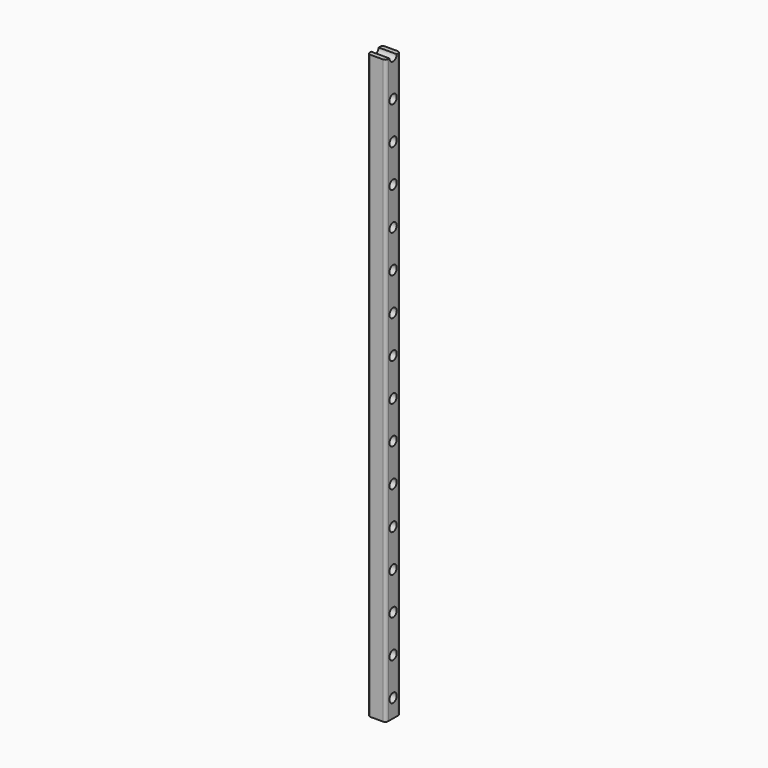
from build123d import *

# Parameters (mm, degrees)
F0_W     = 30
F0_H     = 30
F1_DEPTH = 960
F2_R     = 7.5
F3_DEPTH = 30.001
F4_R     = 5


with BuildPart() as f1:
    # F0 (on Top) → F1 (new body)
    with BuildSketch(Plane.XY):
        Rectangle(F0_W, F0_H)
    extrude(amount=F1_DEPTH)

    # F2 (on face) → F3 (cut, through all)
    with BuildSketch(Plane.YZ.offset(15)):
        with Locations((0, 30)):
            Circle(F2_R)
        with Locations((0, 92)):
            Circle(F2_R)
        with Locations((0, 154)):
            Circle(F2_R)
        with Locations((0, 216)):
            Circle(F2_R)
        with Locations((0, 278)):
            Circle(F2_R)
        with Locations((0, 340)):
            Circle(F2_R)
        with Locations((0, 402)):
            Circle(F2_R)
        with Locations((0, 464)):
            Circle(F2_R)
        with Locations((0, 526)):
            Circle(F2_R)
        with Locations((0, 588)):
            Circle(F2_R)
        with Locations((0, 650)):
            Circle(F2_R)
        with Locations((0, 712)):
            Circle(F2_R)
        with Locations((0, 774)):
            Circle(F2_R)
        with Locations((0, 836)):
            Circle(F2_R)
        with Locations((0, 898)):
            Circle(F2_R)
        with Locations((0, 960)):
            Circle(F2_R)
        with Locations((0, 1022)):
            Circle(F2_R)
        with Locations((0, 1084)):
            Circle(F2_R)
        with Locations((0, 1146)):
            Circle(F2_R)
        with Locations((0, 1208)):
            Circle(F2_R)
        with Locations((0, 1270)):
            Circle(F2_R)
        with Locations((0, 1332)):
            Circle(F2_R)
        with Locations((0, 1394)):
            Circle(F2_R)
        with Locations((0, 1456)):
            Circle(F2_R)
        with Locations((0, 1518)):
            Circle(F2_R)
        with Locations((0, 1580)):
            Circle(F2_R)
        with Locations((0, 1642)):
            Circle(F2_R)
        with Locations((0, 1704)):
            Circle(F2_R)
    extrude(amount=-F3_DEPTH, mode=Mode.SUBTRACT)

    # F4
    f4_edges = [f1.edges().sort_by_distance(p)[0] for p in [
        (15, -15, 480),
        (-15, -15, 480),
        (15, 15, 480),
        (-15, 15, 480),
    ]]
    fillet(f4_edges, radius=F4_R)


solid = f1.part
